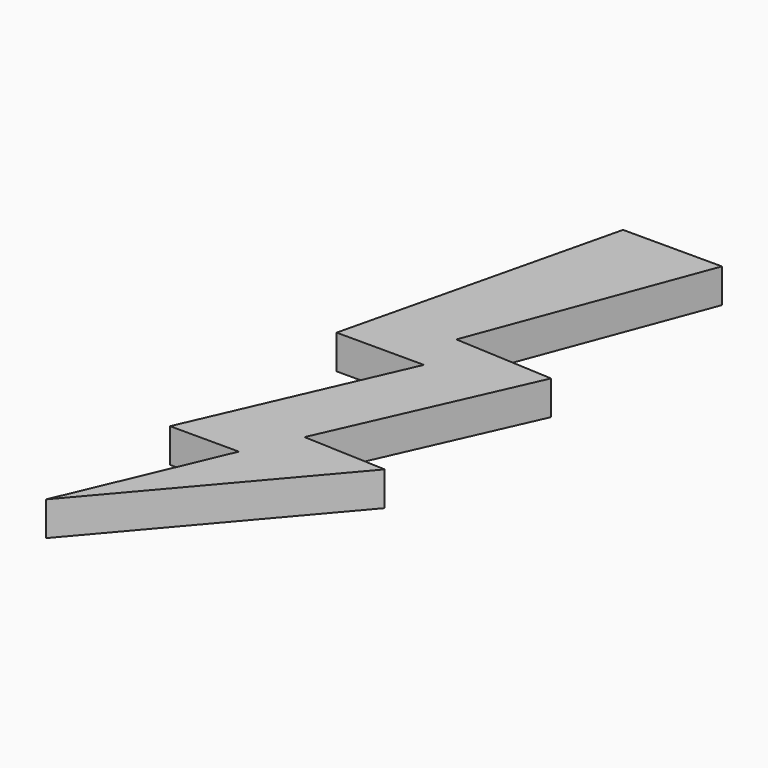
from build123d import *

# Parameters (mm, degrees)
PAD_DEPTH = 5


with BuildPart() as part:
    # Sketch → Pad (new body)
    with BuildSketch(Plane.XY):
        Polygon((10.169492, 9.888975), (19.862532, 50.25737), (34.353745, 50.25737), (21.932703, 17.134588), (36.423927, 16.358273), (23.485334, -12.624167), (35.647602, -13.141712), (10.029199, -43.159237), (19.862532, -20.12855), (9.770433, -20.12855), (22.967783, 9.888975), align=None)
    extrude(amount=PAD_DEPTH)


solid = part.part
